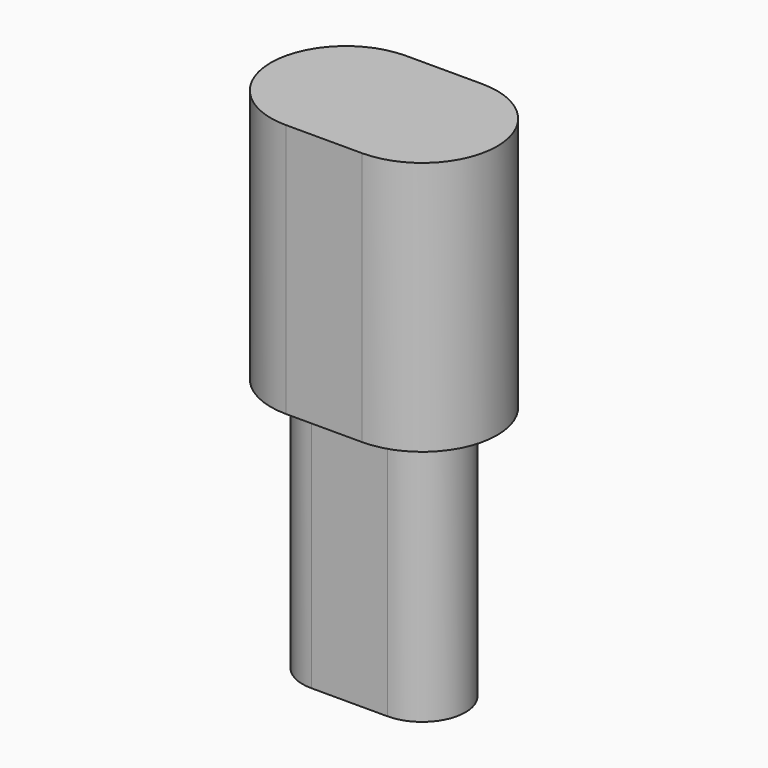
from build123d import *

# Parameters (mm, degrees)
PAD006_DEPTH = 10
PAD007_DEPTH = 10


with BuildPart() as clone_of_m3boltslider003:
    # Sketch009 → Pad006 (new body)
    with BuildSketch(Plane.XY):
        with BuildLine():
            ThreePointArc((-1.5, 1.7), (-3.2, 0), (-1.5, -1.7))
            Line((-1.5, -1.7), (1.5, -1.7))
            ThreePointArc((1.5, -1.7), (3.2, 0), (1.5, 1.7))
            Line((-1.5, 1.7), (1.5, 1.7))
        make_face()
    extrude(amount=PAD006_DEPTH)


with BuildPart() as obj1:
    # Sketch010 → Pad007 (new body)
    with BuildSketch(Plane.XY.offset(10)):
        with BuildLine():
            ThreePointArc((-1.5, 2.95), (-4.45, 0), (-1.5, -2.95))
            Line((-1.5, -2.95), (1.5, -2.95))
            ThreePointArc((1.5, -2.95), (4.45, 0), (1.5, 2.95))
            Line((-1.5, 2.95), (1.5, 2.95))
        make_face()
    extrude(amount=PAD007_DEPTH)

    # Fusion015: union Clone of M3BoltSlider003
    add(clone_of_m3boltslider003.part)


solid = obj1.part
